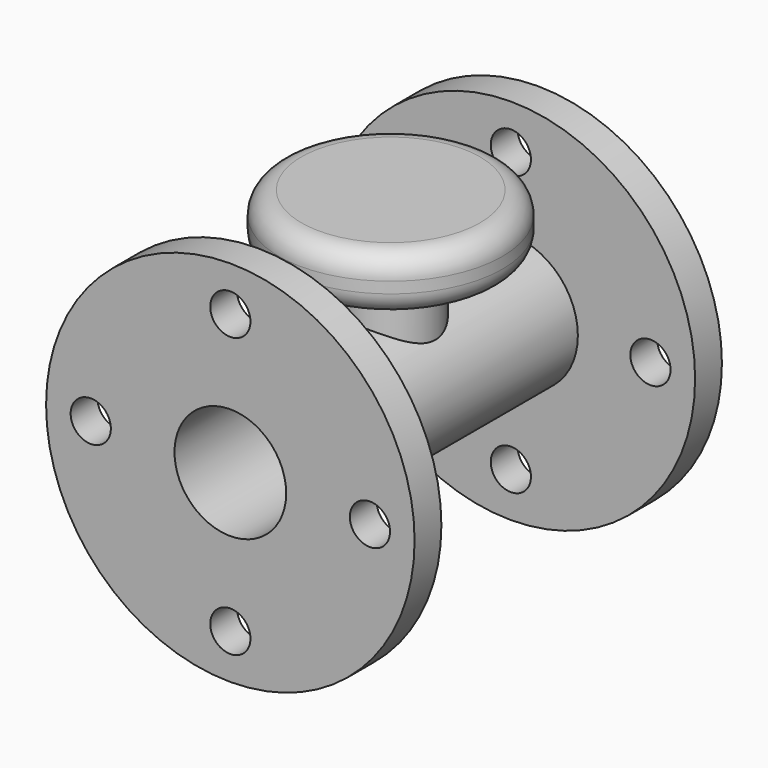
from build123d import *

# Parameters (mm, degrees)
F0_R     = 30
F0_R_2   = 25
F1_DEPTH = 172
F2_R     = 82.5
F2_R_2   = 9
F2_R_3   = 30
F3_DEPTH = 15
F4_R     = 82.5
F4_R_2   = 9
F4_R_3   = 25
F5_DEPTH = 15
F6_R     = 20
F7_DEPTH = 50
F8_R     = 50
F8_R_2   = 20
F9_DEPTH = 25
F10_R    = 10


with BuildPart() as f1:
    # F0 (on Front) → F1 (new body)
    with BuildSketch(Plane.XZ):
        Circle(F0_R)
        Circle(F0_R_2, mode=Mode.SUBTRACT)
    extrude(amount=F1_DEPTH)

    # F2 (on face) → F3 (join)
    with BuildSketch(Plane(origin=(0, 0, 0), x_dir=(-1, 0, 0), z_dir=(0, 1, 0))):
        Circle(F2_R)
        with Locations((0, -62.5)):
            Circle(F2_R_2, mode=Mode.SUBTRACT)
        with Locations((-62.5, 0)):
            Circle(F2_R_2, mode=Mode.SUBTRACT)
        Circle(F2_R_3, mode=Mode.SUBTRACT)
        with Locations((62.5, 0)):
            Circle(F2_R_2, mode=Mode.SUBTRACT)
        with Locations((0, 62.5)):
            Circle(F2_R_2, mode=Mode.SUBTRACT)
    extrude(amount=-F3_DEPTH)

    # F4 (on face) → F5 (join)
    with BuildSketch(Plane.XZ.offset(172)):
        Circle(F4_R)
        with Locations((0, -62.5)):
            Circle(F4_R_2, mode=Mode.SUBTRACT)
        with Locations((-62.5, 0)):
            Circle(F4_R_2, mode=Mode.SUBTRACT)
        Circle(F4_R_3, mode=Mode.SUBTRACT)
        with Locations((62.5, 0)):
            Circle(F4_R_2, mode=Mode.SUBTRACT)
        with Locations((0, 62.5)):
            Circle(F4_R_2, mode=Mode.SUBTRACT)
    extrude(amount=-F5_DEPTH)

    # F6 (on Top) → F7 (join)
    with BuildSketch(Plane.XY):
        with Locations((0, -82.25701)):
            Circle(F6_R)
    extrude(amount=F7_DEPTH)

    # F8 (on face) → F9 (join)
    with BuildSketch(Plane.XY.offset(50)):
        with Locations((0, -82.25701)):
            Circle(F8_R)
        with Locations((0, -82.25701)):
            Circle(F8_R_2, mode=Mode.SUBTRACT)
        with Locations((0, -82.25701)):
            Circle(F8_R_2)
    extrude(amount=F9_DEPTH)

    # F10
    f10_edges = [f1.edges().sort_by_distance(p)[0] for p in [
        (-50, -82.25701, 75),
        (-50, -82.25701, 50),
    ]]
    fillet(f10_edges, radius=F10_R)


solid = f1.part
